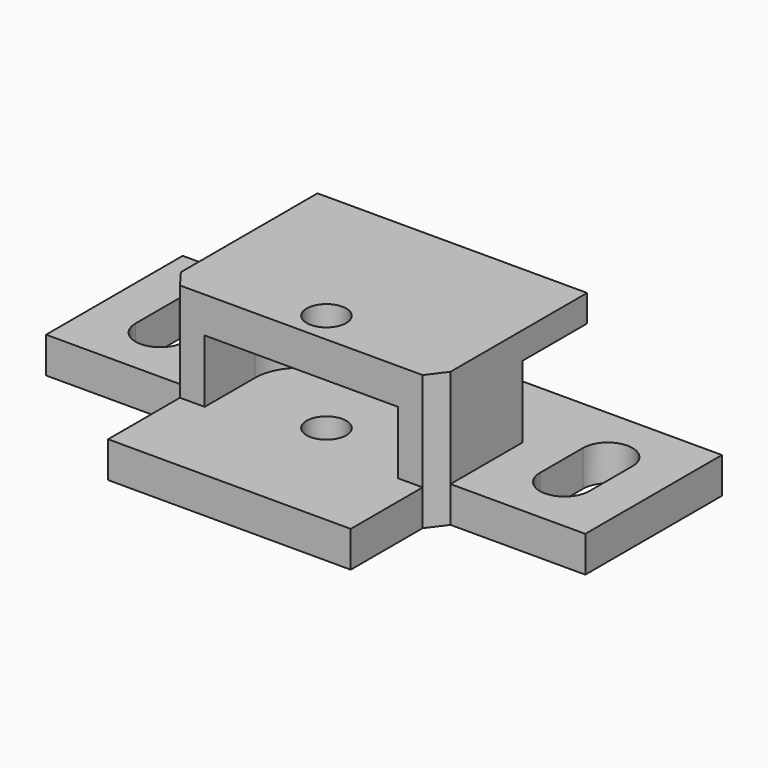
from build123d import *

# Parameters (mm, degrees)
F0_W      = 30
F0_H      = 26
F1_DEPTH  = 15
F3_SIZE2  = 2
F3_SIZE   = 1.5
F5_DEPTH  = 30.001
F6_SIZE   = 4
F2_W      = 21.5
F2_H      = 7
F7_DEPTH  = 12
F8_W      = 11
F8_H      = 7
F9_DEPTH  = 4
F10_R     = 5
F11_R     = 5
F12_W     = 30
F12_H     = 5
F13_DEPTH = 15.001
F15_D     = 4.4
F16_W     = 27
F16_H     = 10
F16_W_2   = 15
F16_H_2   = 19
F17_DEPTH = 4


with BuildPart() as f1:
    # F0 (on Top) → F1 (new body)
    with BuildSketch(Plane.XY):
        Rectangle(F0_W, F0_H)
    extrude(amount=F1_DEPTH)

    # F3
    f3_edges = [f1.edges().sort_by_distance(p)[0] for p in [
        (-15, -13, 7.5),
        (15, -13, 7.5),
    ]]
    f3_side = f1.faces().sort_by_distance((0, -13, 7.5))[0]
    chamfer(f3_edges, length=F3_SIZE, length2=F3_SIZE2, reference=f3_side)

    # F4 (on face) → F5 (cut, through all)
    with BuildSketch(Plane(origin=(-15, 0, 0), x_dir=(0, -1, 0), z_dir=(-1, 0, 0))):
        Polygon((-13, 12), (-13, 0), (-8, 0), (-8, 4), (-3, 4), (-3, 12), align=None)
    extrude(amount=-F5_DEPTH, mode=Mode.SUBTRACT)

    # F6
    f6_edges = [f1.edges().sort_by_distance(p)[0] for p in [
        (-15, 3, 8),
        (15, 3, 8),
    ]]
    chamfer(f6_edges, length=F6_SIZE)

    # F2 (on face) → F7 (cut)
    with BuildSketch(Plane.XZ.offset(13)):
        with Locations((0, 7.5)):
            Rectangle(F2_W, F2_H)
    extrude(amount=-F7_DEPTH, mode=Mode.SUBTRACT)

    # F8 (on face) → F9 (cut)
    with BuildSketch(Plane(origin=(0, 3, 0), x_dir=(-1, 0, 0), z_dir=(0, 1, 0))):
        with Locations((0, 8)):
            Rectangle(F8_W, F8_H)
    extrude(amount=-F9_DEPTH, mode=Mode.SUBTRACT)

    # F10
    f10_edges = [f1.edges().sort_by_distance(p)[0] for p in [
        (-10.75, -1, 7.5),
    ]]
    fillet(f10_edges, radius=F10_R)

    # F11
    f11_edges = [f1.edges().sort_by_distance(p)[0] for p in [
        (10.75, -1, 7.5),
    ]]
    fillet(f11_edges, radius=F11_R)

    # F12 (on face) → F13 (cut, through all)
    with BuildSketch(Plane.XY.offset(15)):
        with Locations((0, 10.5)):
            Rectangle(F12_W, F12_H)
    extrude(amount=-F13_DEPTH, mode=Mode.SUBTRACT)

    # F15 (through all)
    with Locations(Plane.XY.offset(15)):
        with Locations((0, -9.5)):
            Hole(F15_D / 2)

    # F16 (on face) → F17 (join)
    with BuildSketch(Plane(origin=(0, 0, 0), x_dir=(1, 0, 0), z_dir=(0, 0, -1))):
        with Locations((0, 18)):
            Rectangle(F16_W, F16_H)
        with Locations((22.5, 1.5)):
            Rectangle(F16_W_2, F16_H_2)
        with BuildLine():
            Line((19.75, -1.5), (19.75, 4.5))
            ThreePointArc((19.75, 4.5), (22.5, 7.25), (25.25, 4.5))
            Line((25.25, 4.5), (25.25, -1.5))
            ThreePointArc((25.25, -1.5), (22.5, -4.25), (19.75, -1.5))
        make_face(mode=Mode.SUBTRACT)
        with Locations((-22.5, 1.5)):
            Rectangle(F16_W_2, F16_H_2)
        with BuildLine():
            ThreePointArc((-25.25, 4.5), (-22.5, 7.25), (-19.75, 4.5))
            Line((-19.75, 4.5), (-19.75, -1.5))
            ThreePointArc((-19.75, -1.5), (-22.5, -4.25), (-25.25, -1.5))
            Line((-25.25, -1.5), (-25.25, 4.5))
        make_face(mode=Mode.SUBTRACT)
    extrude(amount=-F17_DEPTH)


solid = f1.part
